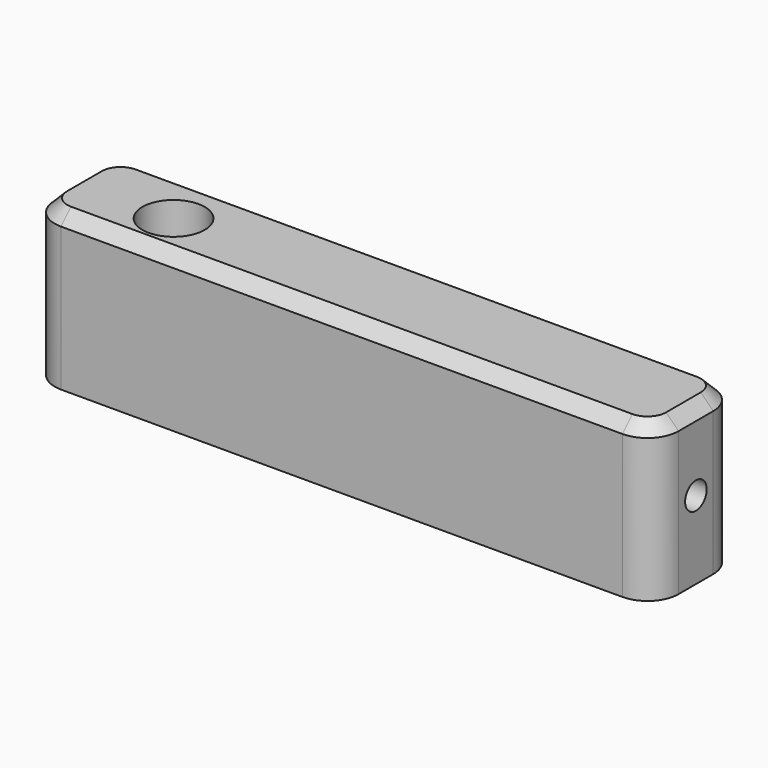
from build123d import *

# Parameters (mm, degrees)
F0_R     = 5
F1_DEPTH = 25
F3_DEPTH = 100.001
F4_SIZE  = 2


with BuildPart() as f1:
    # F0 (on Top) → F1 (new body)
    with BuildSketch(Plane.XY):
        with BuildLine():
            Line((45, 16.932883), (-45, 16.932883))
            ThreePointArc((-45, 16.932883), (-48.535534, 15.468417), (-50, 11.932883))
            Line((-50, 11.932883), (-50, 5))
            ThreePointArc((-50, 5), (-48.535534, 1.464466), (-45, 0))
            Line((-45, 0), (45, 0))
            ThreePointArc((45, 0), (48.535534, 1.464466), (50, 5))
            Line((50, 5), (50, 11.932883))
            ThreePointArc((50, 11.932883), (48.535534, 15.468417), (45, 16.932883))
        make_face()
        with Locations((-32.991346, 7.536008)):
            Circle(F0_R, mode=Mode.SUBTRACT)
    extrude(amount=F1_DEPTH)

    # F2 (on face) → F3 (cut, through all)
    with BuildSketch(Plane(origin=(-50, 0, 0), x_dir=(0, -1, 0), z_dir=(-1, 0, 0))):
        with BuildLine():
            ThreePointArc((-7.88945, 10.419369), (-6.747756, 11.19307), (-6.307288, 12.5))
            ThreePointArc((-6.307288, 12.5), (-7.159511, 14.218685), (-9.043432, 14.580631))
            Line((-9.043432, 14.580631), (-7.88945, 10.419369))
        make_face()
        with BuildLine():
            Line((-7.88945, 10.419369), (-9.043432, 14.580631))
            ThreePointArc((-9.043432, 14.580631), (-10.547073, 11.923009), (-7.88945, 10.419369))
        make_face()
    extrude(amount=-F3_DEPTH, mode=Mode.SUBTRACT)

    # F4
    f4_edges = [f1.edges().sort_by_distance(p)[0] for p in [
        (0, 16.932883, 25),
    ]]
    chamfer(f4_edges, length=F4_SIZE)


solid = f1.part
